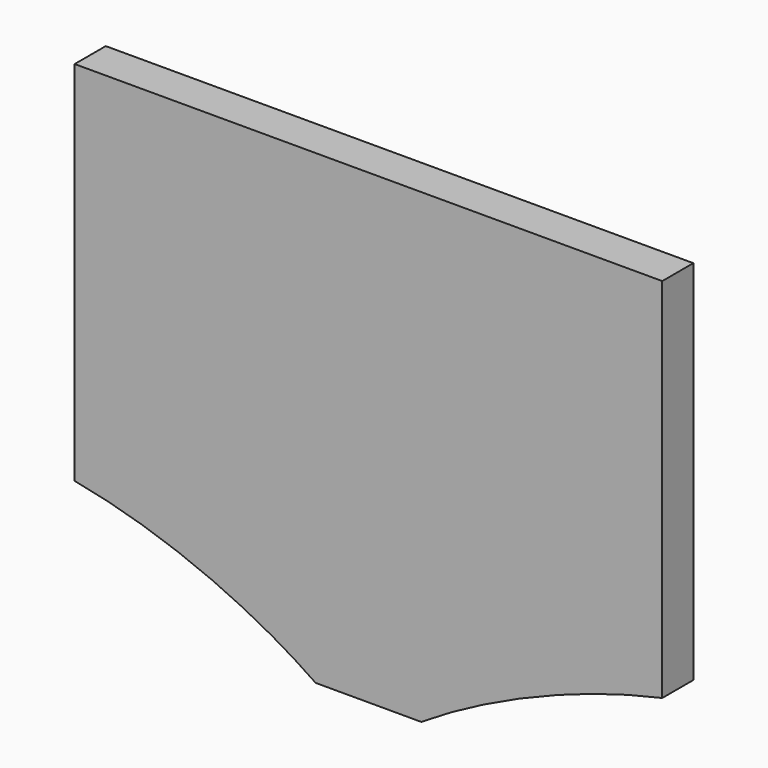
from build123d import *

# Parameters (mm, degrees)
F1_DEPTH = 25.4


with BuildPart() as f1:
    # F0 (on Front) → F1 (new body)
    with BuildSketch(Plane.XZ):
        with BuildLine():
            Line((192.024, 119.9515), (-192.024, 119.9515))
            Line((-192.024, 119.9515), (-192.024, -119.9515))
            add(Edge.make_bspline(
                [(-192.024, -119.9515), (-137.203962, -130.097464), (-79.212219, -154.025212), (-34.5186, -184.9247)],
                knots=[0, 0, 0, 0, 170.380362, 170.380362, 170.380362, 170.380362], degree=3))
            Line((-34.5186, -184.9247), (34.5186, -184.9247))
            add(Edge.make_bspline(
                [(34.5186, -184.9247), (78.605279, -156.298742), (137.055635, -131.84236), (192.024, -119.9515)],
                knots=[0, 0, 0, 0, 170.380362, 170.380362, 170.380362, 170.380362], degree=3))
            Line((192.024, -119.9515), (192.024, 119.9515))
        make_face()
    extrude(amount=F1_DEPTH)


solid = f1.part
